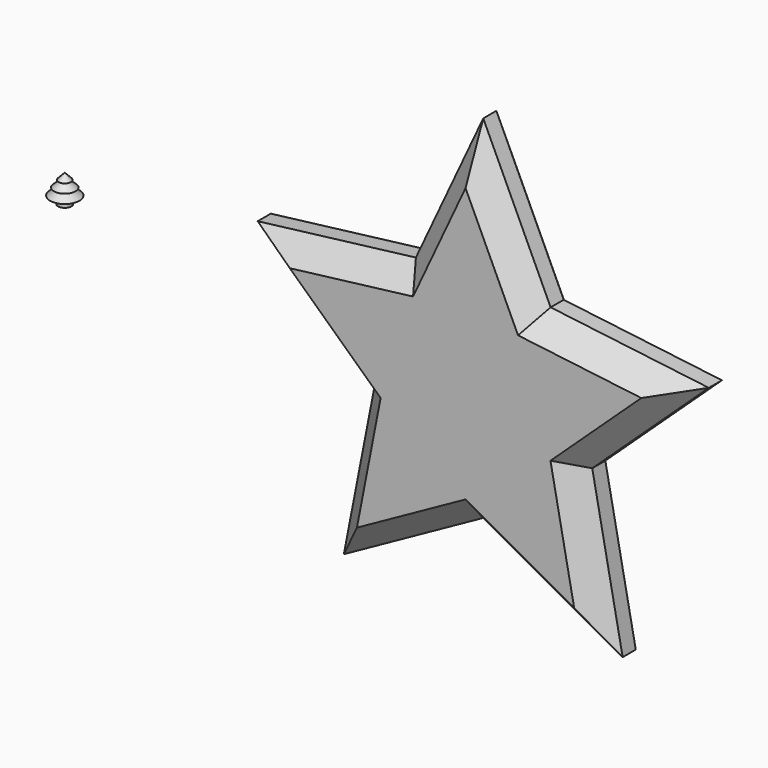
from build123d import *

# Parameters (mm, degrees)
F3_DEPTH = 137
F4_SIZE  = 50


with BuildPart() as f1:
    # F0 (on Front) → F1 (revolve)
    with BuildSketch(Plane.XZ):
        Polygon((-15, 0), (0, 0), (0, 62.46107), (-13.815841, 48), (-6.815841, 48), (-24.251437, 33), (-11.251437, 33), (-33, 17), (-15, 17), align=None)
    revolve(axis=Axis((0, 0, 31.230535), (0, 0, -1)))


with BuildPart() as f3:
    # F2 (on Front) → F3 (new body)
    with BuildSketch(Plane.XZ):
        Polygon((1167.005669, 209.406288), (1014.863095, 535.677092), (862.72052, 209.406288), (505.403906, 165.533325), (768.691238, -79.986085), (700, -433.371871), (1014.863095, -258.840408), (1329.726189, -433.371871), (1261.034951, -79.986085), (1524.322283, 165.533325), align=None)
    extrude(amount=F3_DEPTH)

    # F4
    f4_edges = [f3.edges().sort_by_distance(p)[0] for p in [
        (684.062213, -137, 187.469807),
        (684.062213, 0, 187.469807),
        (938.791807, -137, 372.54169),
        (938.791807, 0, 372.54169),
        (1345.663976, -137, 187.469807),
        (1345.663976, 0, 187.469807),
        (734.345619, -137, -256.678978),
        (734.345619, 0, -256.678978),
        (637.047572, -137, 42.77362),
        (637.047572, 0, 42.77362),
        (857.431547, -137, -346.106139),
        (1172.294642, -137, -346.106139),
        (1295.38057, -137, -256.678978),
        (1392.678617, -137, 42.77362),
        (1090.934382, -137, 372.54169),
        (1090.934382, 0, 372.54169),
        (1392.678617, 0, 42.77362),
        (1295.38057, 0, -256.678978),
        (857.431547, 0, -346.106139),
        (1172.294642, 0, -346.106139),
    ]]
    chamfer(f4_edges, length=F4_SIZE)


solid = Compound([f1.part, f3.part])
